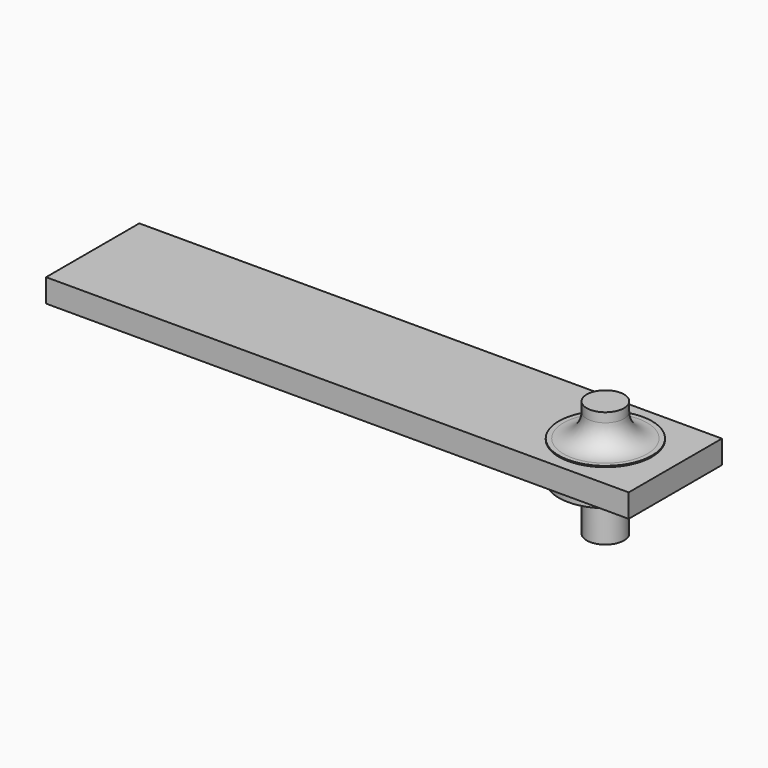
from build123d import *

# Parameters (mm, degrees)
CYLINDER004_R     = 0.8
CYLINDER004_DEPTH = 5
CYLINDER006_R     = 2
CYLINDER006_DEPTH = 1.6
FILLET003_R       = 1
BOX006_W          = 25
BOX006_H          = 5
BOX006_DEPTH      = 1


with BuildPart() as cilindro004:
    # Cylinder004 → Cylinder004 (new body)
    with BuildSketch(Plane(origin=(-8, 104, -2), x_dir=(1, 0, 0), z_dir=(0, 0, 1))):
        Circle(CYLINDER004_R)
    extrude(amount=CYLINDER004_DEPTH)


with BuildPart() as fillet003:
    # Cylinder006 → Cylinder006 (new body)
    with BuildSketch(Plane(origin=(-8, 104, 0), x_dir=(1, 0, 0), z_dir=(0, 0, 1))):
        Circle(CYLINDER006_R)
    extrude(amount=CYLINDER006_DEPTH)

    # Fusion003: union Cilindro004
    add(cilindro004.part)

    # Fillet003
    fillet003_edges = [fillet003.edges().sort_by_distance(p)[0] for p in [
        (-8.8, 104, 1.6),
    ]]
    fillet(fillet003_edges, radius=FILLET003_R)


with BuildPart() as obj1:
    # Box006 → Box006 (new body)
    with BuildSketch(Plane(origin=(-30, 101.5, 0.55), x_dir=(1, 0, 0), z_dir=(0, 0, 1))):
        with Locations((12.5, 2.5)):
            Rectangle(BOX006_W, BOX006_H)
    extrude(amount=BOX006_DEPTH)

    # Fusion005: union Fillet003
    add(fillet003.part)


with BuildPart() as obj1_1:
    # Fusion005 placement: moved
    add(obj1.part.moved(Location((-5, 0, 0))))


solid = obj1_1.part
